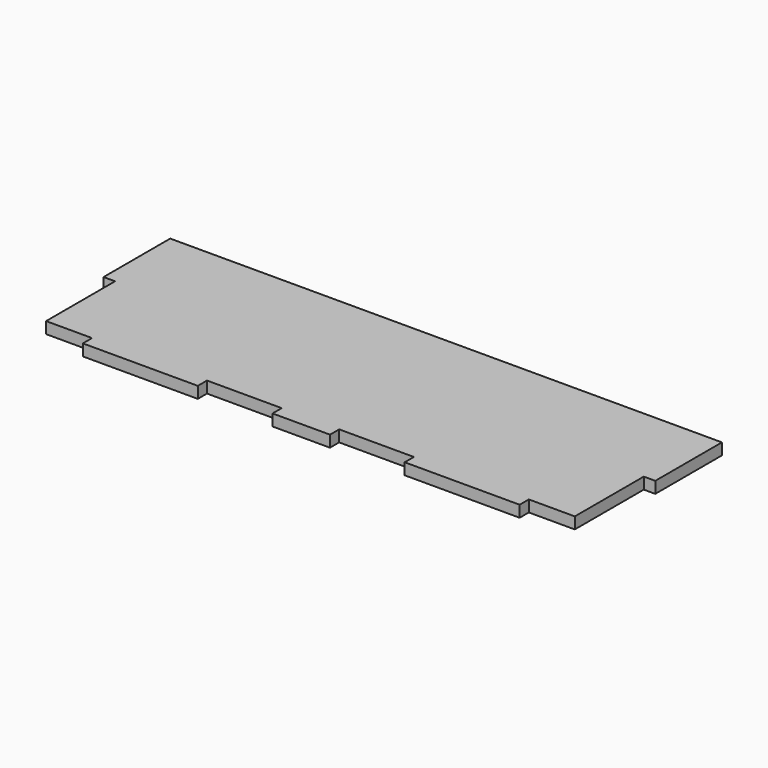
from build123d import *

# Parameters (mm, degrees)
F1_DEPTH = 8


with BuildPart() as f1:
    # F0 (on Top) → F1 (new body)
    with BuildSketch(Plane.XY):
        Polygon((0, 58), (0, 0), (8, 0), (8, -60), (40, -60), (40, -68), (120, -68), (120, -60), (172, -60), (172, -68), (212, -68), (212, -60), (264, -60), (264, -68), (344, -68), (344, -60), (376, -60), (376, 0), (384, 0), (384, 58), align=None)
    extrude(amount=F1_DEPTH)


solid = f1.part
